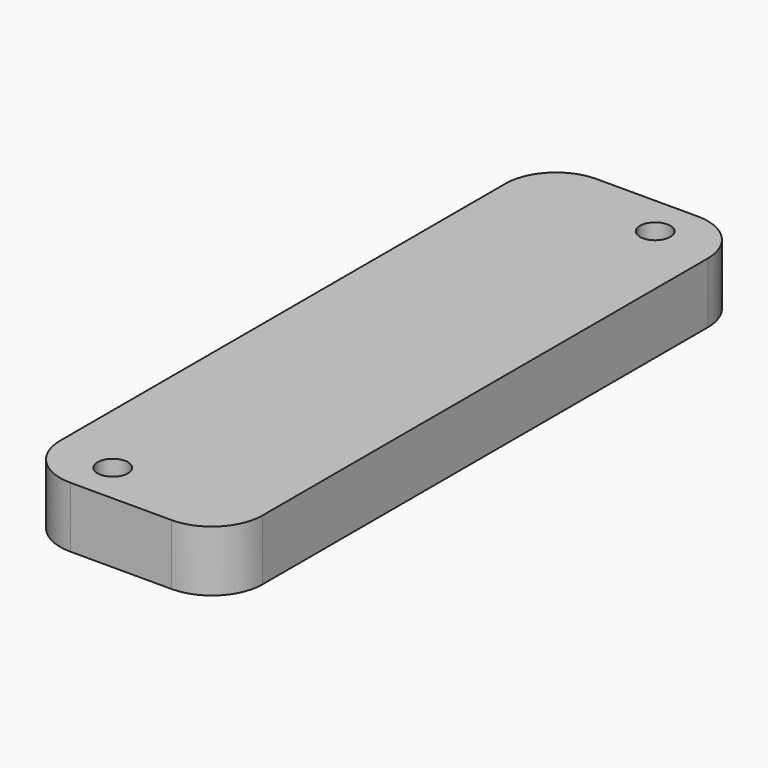
from build123d import *

# Parameters (mm, degrees)
F0_R     = 1.5
F1_DEPTH = 6
F2_R     = 5


with BuildPart() as f1:
    # F0 (on Top) → F1 (new body)
    with BuildSketch(Plane.XY):
        Polygon((5.749487, -32.5), (10, -32.5), (10, 32.5), (-10, 32.5), (-10, -32.5), (0.5, -32.5), align=None)
        with Locations((-4, -28.5)):
            Circle(F0_R, mode=Mode.SUBTRACT)
        with Locations((4, 28.5)):
            Circle(F0_R, mode=Mode.SUBTRACT)
    extrude(amount=F1_DEPTH)

    # F2
    f2_edges = [f1.edges().sort_by_distance(p)[0] for p in [
        (-10, 32.5, 3),
        (10, 32.5, 3),
        (10, -32.5, 3),
        (-10, -32.5, 3),
    ]]
    fillet(f2_edges, radius=F2_R)


solid = f1.part
